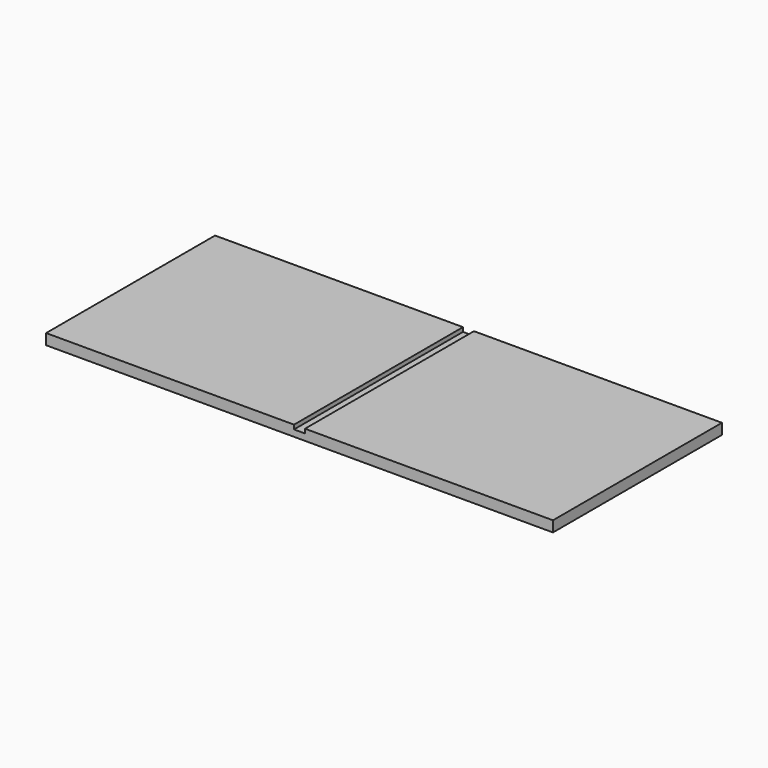
from build123d import *

# Parameters (mm, degrees)
SKETCH002_W     = 600
SKETCH002_H     = 250
PAD002_DEPTH    = 12.7
SKETCH008_W     = 13
SKETCH008_H     = 264.944031
POCKET002_DEPTH = 5


with BuildPart() as bottom:
    # Sketch002 → Pad002 (new body)
    with BuildSketch(Plane.XY):
        with Locations((300, 541.24469)):
            Rectangle(SKETCH002_W, SKETCH002_H)
    extrude(amount=PAD002_DEPTH)

    # Sketch008 (on Face6 of Pad002) → Pocket002 (cut)
    with BuildSketch(Plane.XY.offset(12.7)):
        with Locations((300, 543.505463)):
            Rectangle(SKETCH008_W, SKETCH008_H)
    extrude(amount=-POCKET002_DEPTH, mode=Mode.SUBTRACT)


with BuildPart() as bottom_mirrored:
    # Mirror002: instance of Bottom
    add(bottom.part.mirror(Plane(origin=(-4.230286, 675.934937, 0), x_dir=(-1, 0, 0), z_dir=(0, -1, 0))))


solid = bottom_mirrored.part
